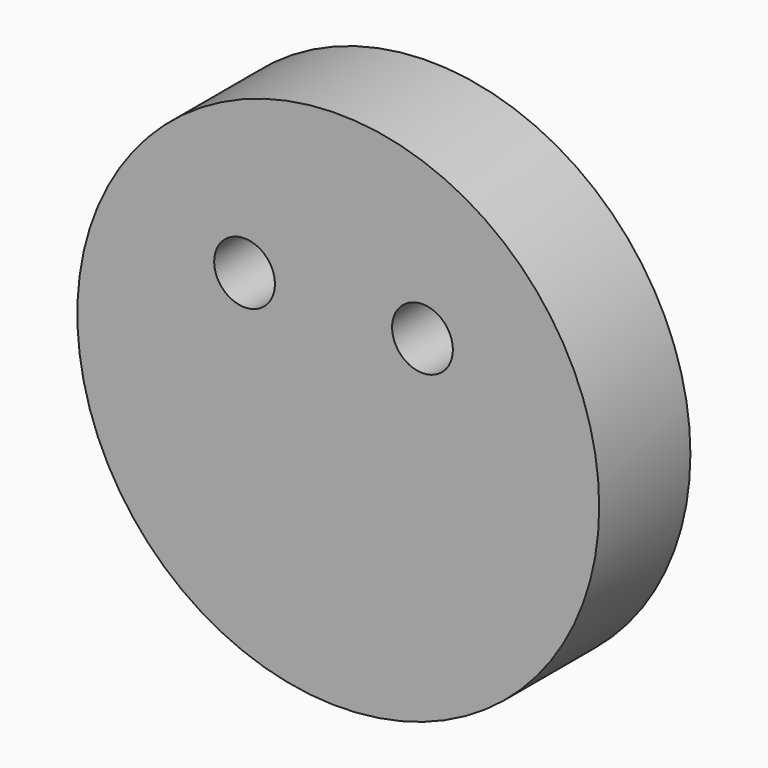
from build123d import *

# Parameters (mm, degrees)
F0_R     = 49.4073615008
F1_DEPTH = 21.59
F3_D     = 11.5062
F6_D     = 11.5062


with BuildPart() as f1:
    # F0 (on Front) → F1 (new body)
    with BuildSketch(Plane.XZ):
        Circle(F0_R)
    extrude(amount=F1_DEPTH)

    # F3 (through all)
    with Locations(Plane.XZ.offset(21.59)):
        with Locations((-17.7465770394, 17.1450003982)):
            Hole(F3_D / 2)

    # F6 (through all)
    with Locations(Plane.XZ.offset(21.59)):
        with Locations((15.9418433905, 17.1450003982)):
            Hole(F6_D / 2)


solid = f1.part
